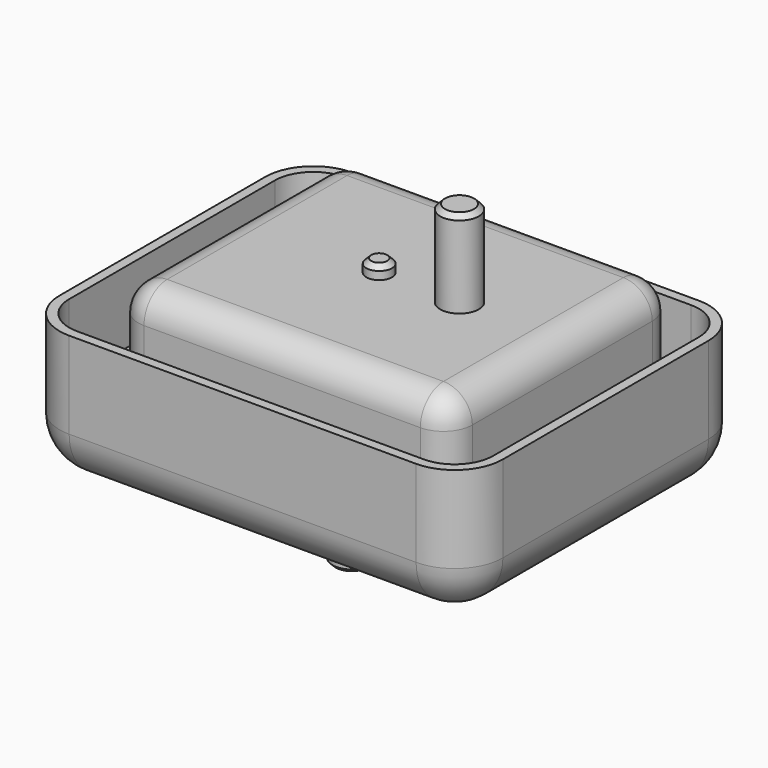
from build123d import *

# Parameters (mm, degrees)
F1_DEPTH  = 42
F2_R      = 15
F3_T      = -3
F4_R      = 6
F5_DEPTH  = 28
F4_R_2    = 4
F6_DEPTH  = 5
F7_SIZE   = 1
F10_DEPTH = 39
F11_R     = 9
F12_T     = -5
F13_W     = 86
F13_H     = 15
F14_DEPTH = 2.5
F15_W     = 86
F15_H     = 15
F16_DEPTH = 2.5
F17_W     = 70
F17_H     = 15
F18_DEPTH = 5
F19_W     = 70
F19_H     = 15
F20_DEPTH = 5
F21_R     = 6
F22_DEPTH = 27
F21_R_2   = 4
F23_DEPTH = 4
F24_SIZE  = 1.5


with BuildPart() as f1:
    # F0 (on Top) → F1 (new body)
    with BuildSketch(Plane.XY):
        with BuildLine():
            Line((-54, -55), (54, -55))
            ThreePointArc((54, -55), (64.6066017178, -50.6066017178), (69, -40))
            Line((69, -40), (69, 40))
            ThreePointArc((69, 40), (64.6066017178, 50.6066017178), (54, 55))
            Line((54, 55), (-54, 55))
            ThreePointArc((-54, 55), (-64.6066017178, 50.6066017178), (-69, 40))
            Line((-69, 40), (-69, -40))
            ThreePointArc((-69, -40), (-64.6066017178, -50.6066017178), (-54, -55))
        make_face()
    extrude(amount=F1_DEPTH)

    # F2
    f2_edges = [f1.edges().sort_by_distance(p)[0] for p in [
        (0, -55, 0),
    ]]
    fillet(f2_edges, radius=F2_R)

    # F3
    f3_openings = [f1.faces().sort_by_distance(p)[0] for p in [
        (0, 0, 42),
    ]]
    offset(amount=F3_T, openings=f3_openings)

    # F4 (on face) → F5 (join)
    with BuildSketch(Plane(origin=(0, 0, 0), x_dir=(1, 0, 0), z_dir=(0, 0, -1))):
        with Locations((-10, 0)):
            Circle(F4_R)
    extrude(amount=F5_DEPTH)

    # F4 (on face) → F6 (join)
    with BuildSketch(Plane(origin=(0, 0, 0), x_dir=(1, 0, 0), z_dir=(0, 0, -1))):
        with Locations((10, 0)):
            Circle(F4_R_2)
    extrude(amount=F6_DEPTH)

    # F7
    f7_edges = [f1.edges().sort_by_distance(p)[0] for p in [
        (6, 0, -5),
        (-16, 0, -28),
    ]]
    chamfer(f7_edges, length=F7_SIZE)


with BuildPart() as f10:
    # F9 (on offset) → F10 (new body)
    with BuildSketch(Plane.XY.offset(54)):
        with BuildLine():
            ThreePointArc((-48.5, -35), (-45.8639610307, -41.3639610307), (-39.5, -44))
            Line((-39.5, -44), (46.5, -44))
            ThreePointArc((46.5, -44), (52.8639610307, -41.3639610307), (55.5, -35))
            Line((55.5, -35), (55.5, 35))
            ThreePointArc((55.5, 35), (52.8639610307, 41.3639610307), (46.5, 44))
            Line((46.5, 44), (-39.5, 44))
            ThreePointArc((-39.5, 44), (-45.8639610307, 41.3639610307), (-48.5, 35))
            Line((-48.5, 35), (-48.5, -35))
        make_face()
    extrude(amount=-F10_DEPTH)

    # F11
    f11_edges = [f10.edges().sort_by_distance(p)[0] for p in [
        (-48.5, 0, 54),
    ]]
    fillet(f11_edges, radius=F11_R)

    # F12
    f12_openings = [f10.faces().sort_by_distance(p)[0] for p in [
        (3.5, 0, 15),
    ]]
    offset(amount=F12_T, openings=f12_openings)

    # F13 (on face) → F14 (join)
    with BuildSketch(Plane.XZ.offset(44)):
        with Locations((3.5, 22.5)):
            Rectangle(F13_W, F13_H)
    extrude(amount=F14_DEPTH)

    # F15 (on face) → F16 (join)
    with BuildSketch(Plane(origin=(0, 44, 0), x_dir=(-1, 0, 0), z_dir=(0, 1, 0))):
        with Locations((-3.5, 22.5)):
            Rectangle(F15_W, F15_H)
    extrude(amount=F16_DEPTH)

    # F17 (on face) → F18 (join)
    with BuildSketch(Plane(origin=(-48.5, 0, 0), x_dir=(0, -1, 0), z_dir=(-1, 0, 0))):
        with Locations((0, 22.5)):
            Rectangle(F17_W, F17_H)
    extrude(amount=F18_DEPTH)

    # F19 (on face) → F20 (join)
    with BuildSketch(Plane.YZ.offset(55.5)):
        with Locations((0, 22.5)):
            Rectangle(F19_W, F19_H)
    extrude(amount=F20_DEPTH)

    # F21 (on face) → F22 (join)
    with BuildSketch(Plane.XY.offset(54)):
        with Locations((23.5, 0)):
            Circle(F21_R)
    extrude(amount=F22_DEPTH)

    # F21 (on face) → F23 (join)
    with BuildSketch(Plane.XY.offset(54)):
        with Locations((-1.5, 0)):
            Circle(F21_R_2)
    extrude(amount=F23_DEPTH)

    # F24
    f24_edges = [f10.edges().sort_by_distance(p)[0] for p in [
        (17.5, 0, 81),
        (-5.5, 0, 58),
    ]]
    chamfer(f24_edges, length=F24_SIZE)


solid = Compound([f1.part, f10.part])
